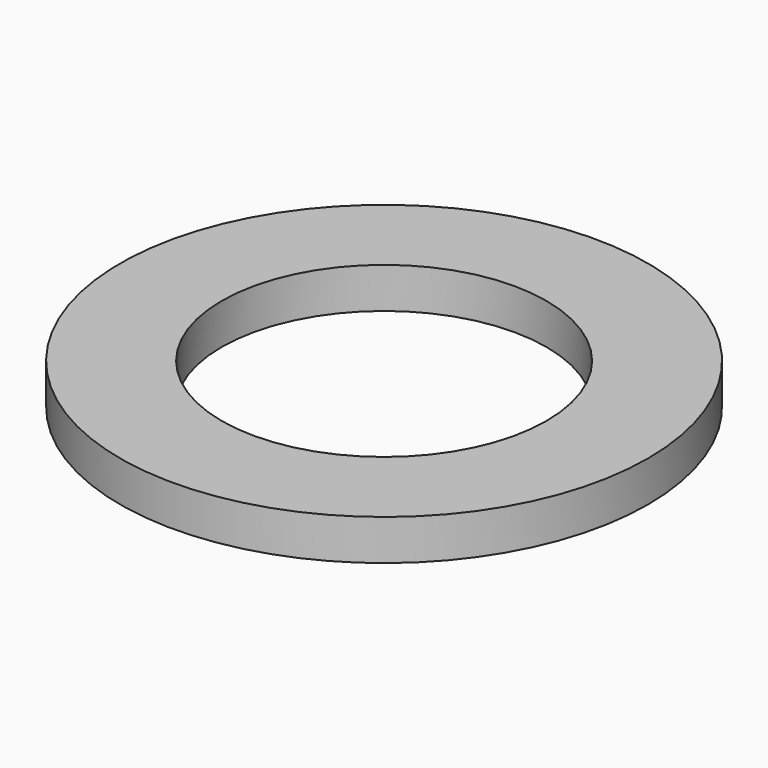
from build123d import *

# Parameters (mm, degrees)
CYLINDER007_R     = 0.4
CYLINDER007_DEPTH = 0.1
CYLINDER006_R     = 0.65
CYLINDER006_DEPTH = 0.1


with BuildPart() as cylinder007:
    # Cylinder007 → Cylinder007 (new body)
    with BuildSketch(Plane.XY.offset(1.62)):
        Circle(CYLINDER007_R)
    extrude(amount=CYLINDER007_DEPTH)


with BuildPart() as cut007:
    # Cylinder006 → Cylinder006 (new body)
    with BuildSketch(Plane.XY.offset(1.62)):
        Circle(CYLINDER006_R)
    extrude(amount=CYLINDER006_DEPTH)

    # Cut007: cut Cylinder007
    add(cylinder007.part, mode=Mode.SUBTRACT)


with BuildPart() as cut007_1:
    # Cut007 placement: moved
    add(cut007.part.moved(Location((6.18, 12.7, 0))))


solid = cut007_1.part
